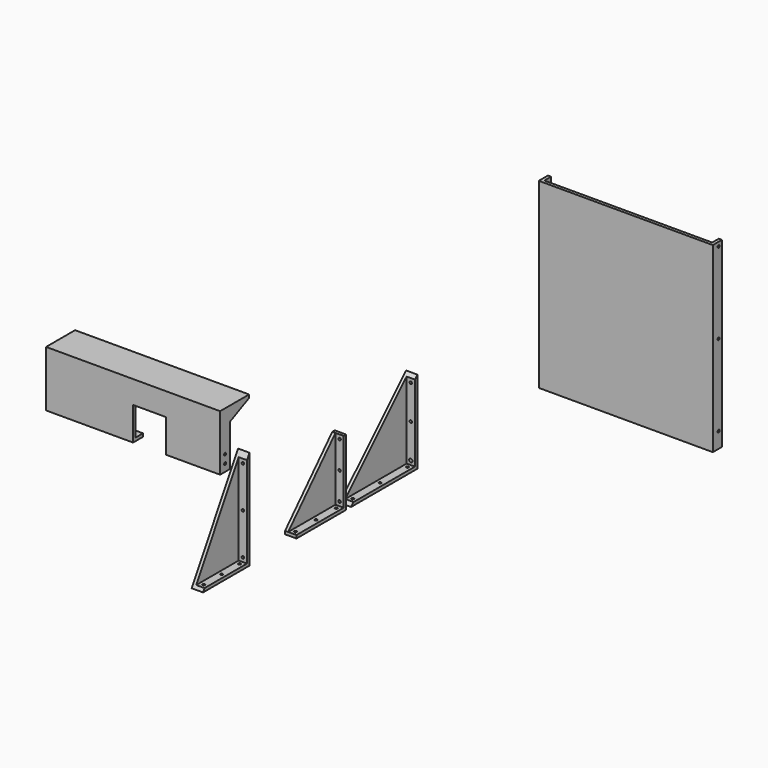
from build123d import *

# Parameters (mm, degrees)
F1_DEPTH  = 4.7625
F3_DEPTH  = 12.7
F4_R      = 1.905
F5_DEPTH  = 4.7625
F6_R      = 1.905
F6_R_2    = 2.54
F7_DEPTH  = 4.7625
F9_DEPTH  = 4.7625
F11_DEPTH = 12.7
F12_R     = 1.905
F13_DEPTH = 4.7625
F14_R     = 1.905
F15_DEPTH = 4.7625
F17_DEPTH = 4.7625
F19_DEPTH = 12.7
F20_R     = 1.905
F21_DEPTH = 4.7625
F22_R     = 1.905
F23_DEPTH = 4.7625
F24_W     = 254
F24_H     = 12.7
F25_DEPTH = 4.7625
F27_DEPTH = 76.2
F28_R     = 1.905
F29_DEPTH = 266.7
F30_W     = 50.8
F30_H     = 50.8
F31_DEPTH = 19.051
F33_DEPTH = 4.7625
F35_DEPTH = 50.8
F37_DEPTH = 4.7625
F39_DEPTH = 4.7625
F40_W     = 4.7625
F40_H     = 279.4
F41_DEPTH = 266.7
F42_W     = 128.5875
F42_H     = 4.7625
F43_DEPTH = 12.7
F44_R     = 1.905
F45_DEPTH = 266.7
F46_R     = 1.905
F47_DEPTH = 4.7625


with BuildPart() as f1:
    # F0 (on Right) → F1 (new body)
    with BuildSketch(Plane.YZ):
        Polygon((127, 127), (0, 0), (127, 0), align=None)
    extrude(amount=F1_DEPTH)

    # F2 (on face) → F3 (join)
    with BuildSketch(Plane.YZ.offset(4.7625)):
        Polygon((122.2375, 4.7625), (127, 4.7625), (127, 127), (122.2375, 122.2375), align=None)
        Polygon((127, 0), (127, 4.7625), (122.2375, 4.7625), (4.7625, 4.7625), (0, 0), align=None)
    extrude(amount=F3_DEPTH)

    # F4 (on face) → F5 (cut, through all)
    with BuildSketch(Plane.XY.offset(4.7625)):
        with Locations((11.1125, 11.1125)):
            Circle(F4_R)
        with Locations((11.1125, 115.8875)):
            Circle(F4_R)
        with Locations((11.1125, 63.5)):
            Circle(F4_R)
    extrude(amount=-F5_DEPTH, mode=Mode.SUBTRACT)

    # F6 (on face) → F7 (cut, through all)
    with BuildSketch(Plane.XZ.offset(-122.2375)):
        with Locations((11.1125, 115.8875)):
            Circle(F6_R)
        with Locations((11.1125, 11.1125)):
            Circle(F6_R_2)
        with Locations((11.1125, 63.5)):
            Circle(F6_R)
    extrude(amount=-F7_DEPTH, mode=Mode.SUBTRACT)


with BuildPart() as f9:
    # F8 (on Right) → F9 (new body)
    with BuildSketch(Plane.YZ):
        Polygon((-194.6776018031, 152.4), (-283.5776018031, 0), (-194.6776018031, 0), align=None)
    extrude(amount=F9_DEPTH)

    # F10 (on face) → F11 (join)
    with BuildSketch(Plane.YZ.offset(4.7625)):
        Polygon((-199.4401018031, 144.2357142857), (-199.4401018031, 4.7625), (-194.6776018031, 4.7625), (-194.6776018031, 152.4), align=None)
        Polygon((-199.4401018031, 4.7625), (-280.7994768031, 4.7625), (-283.5776018031, 0), (-194.6776018031, 0), (-194.6776018031, 4.7625), align=None)
    extrude(amount=F11_DEPTH)

    # F12 (on face) → F13 (cut, through all)
    with BuildSketch(Plane.XY.offset(4.7625)):
        with Locations((11.1125, -274.4494768031)):
            Circle(F12_R)
        with Locations((11.1125, -240.1197893031)):
            Circle(F12_R)
        with Locations((11.1125, -205.7901018031)):
            Circle(F12_R)
    extrude(amount=-F13_DEPTH, mode=Mode.SUBTRACT)

    # F14 (on face) → F15 (cut, through all)
    with BuildSketch(Plane.XZ.offset(199.4401018031)):
        with Locations((11.1125, 137.8857142857)):
            Circle(F14_R)
        with Locations((11.1125, 11.1125)):
            Circle(F14_R)
        with Locations((11.1125, 74.4991071429)):
            Circle(F14_R)
    extrude(amount=-F15_DEPTH, mode=Mode.SUBTRACT)


with BuildPart() as f17:
    # F16 (on Right) → F17 (new body)
    with BuildSketch(Plane.YZ):
        Polygon((-104.6228282591, 4.7625), (-104.6228282591, 0), (-9.3728282591, 0), (-9.3728282591, 101.6), (-14.1353282591, 101.6), (-14.1353282591, 4.7625), align=None)
        Polygon((-14.1353282591, 101.6), (-104.6228282591, 4.7625), (-14.1353282591, 4.7625), align=None)
    extrude(amount=F17_DEPTH)

    # F18 (on face) → F19 (join)
    with BuildSketch(Plane.YZ.offset(4.7625)):
        Polygon((-9.3728282591, 101.6), (-14.1353282591, 101.6), (-14.1353282591, 4.7625), (-104.6228282591, 4.7625), (-104.6228282591, 0), (-9.3728282591, 0), align=None)
    extrude(amount=F19_DEPTH)

    # F20 (on face) → F21 (cut, through all)
    with BuildSketch(Plane.XY.offset(4.7625)):
        with Locations((11.1125, -98.2728282591)):
            Circle(F20_R)
        with Locations((11.1125, -20.4853282591)):
            Circle(F20_R)
        with Locations((11.1125, -59.3790782591)):
            Circle(F20_R)
    extrude(amount=-F21_DEPTH, mode=Mode.SUBTRACT)

    # F22 (on face) → F23 (cut, through all)
    with BuildSketch(Plane.XZ.offset(14.1353282591)):
        with Locations((11.1125, 95.25)):
            Circle(F22_R)
        with Locations((11.1125, 11.1125)):
            Circle(F22_R)
        with Locations((11.1125, 53.18125)):
            Circle(F22_R)
    extrude(amount=-F23_DEPTH, mode=Mode.SUBTRACT)


with BuildPart() as f25:
    # F24 (on Top) → F25 (new body)
    with BuildSketch(Plane.XY):
        with Locations((-290.5610627561, -19.8836544693)):
            Rectangle(F24_W, F24_H)
        Polygon((-417.5610627561, -13.5336544693), (-423.9110627561, -13.5336544693), (-423.9110627561, -32.5836544693), (-157.2110627561, -32.5836544693), (-157.2110627561, -13.5336544693), (-163.5610627561, -13.5336544693), (-163.5610627561, -26.2336544693), (-417.5610627561, -26.2336544693), align=None)
    extrude(amount=F25_DEPTH)

    # F26 (on face) → F27 (join)
    with BuildSketch(Plane.XY.offset(4.7625)):
        Polygon((-419.1485627561, -27.8211544693), (-419.1485627561, -13.5336544693), (-423.9110627561, -13.5336544693), (-423.9110627561, -32.5836544693), (-157.2110627561, -32.5836544693), (-157.2110627561, -13.5336544693), (-161.9735627561, -13.5336544693), (-161.9735627561, -27.8211544693), align=None)
    extrude(amount=F27_DEPTH)

    # F28 (on face) → F29 (cut, through all)
    with BuildSketch(Plane(origin=(-423.9110627561, 0, 0), x_dir=(0, -1, 0), z_dir=(-1, 0, 0))):
        with Locations((23.0586544693, 23.8125)):
            Circle(F28_R)
        with Locations((23.0586544693, 11.1125)):
            Circle(F28_R)
    extrude(amount=-F29_DEPTH, mode=Mode.SUBTRACT)

    # F30 (on face) → F31 (cut, through all)
    with BuildSketch(Plane.XZ.offset(32.5836544693)):
        with Locations((-265.1610627561, 25.4)):
            Rectangle(F30_W, F30_H)
    extrude(amount=-F31_DEPTH, mode=Mode.SUBTRACT)

    # F32 (on face) → F33 (join)
    with BuildSketch(Plane.XY.offset(80.9625)):
        Polygon((-423.9110627561, -27.8211544693), (-423.9110627561, -32.5836544693), (-157.2110627561, -32.5836544693), (-157.2110627561, -27.8211544693), (-161.9735627561, -27.8211544693), (-419.1485627561, -27.8211544693), align=None)
    extrude(amount=F33_DEPTH)

    # F34 (on face) → F35 (join)
    with BuildSketch(Plane(origin=(0, -27.8211544693, 0), x_dir=(-1, 0, 0), z_dir=(0, 1, 0))):
        Polygon((423.9110627561, 85.725), (157.2110627561, 85.725), (157.2110627561, 80.9625), (161.9735627561, 80.9625), (419.1485627561, 80.9625), (423.9110627561, 80.9625), align=None)
    extrude(amount=F35_DEPTH)

    # F36 (on face) → F37 (join)
    with BuildSketch(Plane(origin=(-423.9110627561, 0, 0), x_dir=(0, -1, 0), z_dir=(-1, 0, 0))):
        Polygon((13.5336544693, 80.9625), (-22.9788455307, 80.9625), (13.5336544693, 63.9364416316), align=None)
    extrude(amount=-F37_DEPTH)

    # F38 (on face) → F39 (join)
    with BuildSketch(Plane.YZ.offset(-157.2110627561)):
        Polygon((-13.5336544693, 63.9364416316), (22.9788455307, 80.9625), (-13.5336544693, 80.9625), align=None)
    extrude(amount=-F39_DEPTH)


with BuildPart() as f41:
    # F40 (on Right) → F41 (new body)
    with BuildSketch(Plane.YZ):
        with Locations((383.7464779562, 139.7)):
            Rectangle(F40_W, F40_H)
    extrude(amount=F41_DEPTH)

    # F42 (on face) → F43 (join)
    with BuildSketch(Plane(origin=(0, 386.1277279562, 0), x_dir=(-1, 0, 0), z_dir=(0, 1, 0))):
        Polygon((-261.9375, 279.4), (-266.7, 279.4), (-266.7, 0), (-261.9375, 0), (-261.9375, 4.7625), align=None)
        with Locations((-197.64375, 2.38125)):
            Rectangle(F42_W, F42_H)
        with Locations((-69.05625, 2.38125)):
            Rectangle(F42_W, F42_H)
        Polygon((0, 279.4), (-4.7625, 279.4), (-4.7625, 4.7625), (-4.7625, 0), (0, 0), align=None)
    extrude(amount=F43_DEPTH)

    # F44 (on face) → F45 (cut, through all)
    with BuildSketch(Plane.YZ.offset(266.7)):
        with Locations((392.4777279562, 273.05)):
            Circle(F44_R)
        with Locations((392.4777279562, 148.43125)):
            Circle(F44_R)
        with Locations((392.4777279562, 23.8125)):
            Circle(F44_R)
    extrude(amount=-F45_DEPTH, mode=Mode.SUBTRACT)

    # F46 (on face) → F47 (cut, through all)
    with BuildSketch(Plane.XY.offset(4.7625)):
        with Locations((38.1, 392.4777279562)):
            Circle(F46_R)
        with Locations((66.675, 392.4777279562)):
            Circle(F46_R)
        with Locations((95.25, 392.4777279562)):
            Circle(F46_R)
        with Locations((171.45, 392.4777279562)):
            Circle(F46_R)
        with Locations((228.6, 392.4777279562)):
            Circle(F46_R)
        with Locations((200.025, 392.4777279562)):
            Circle(F46_R)
    extrude(amount=-F47_DEPTH, mode=Mode.SUBTRACT)


solid = Compound([f1.part, f9.part, f17.part, f25.part, f41.part])
